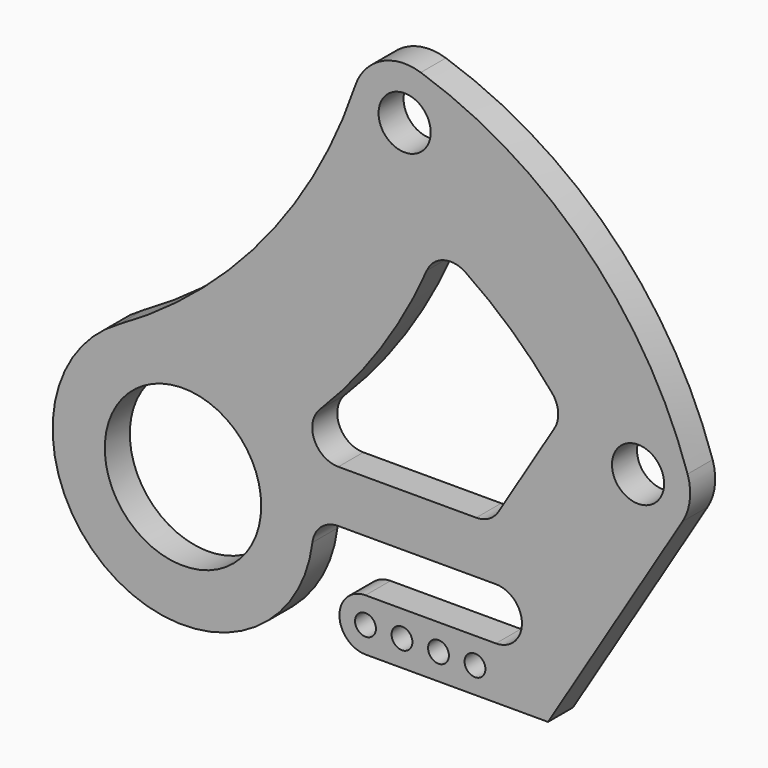
from build123d import *

# Parameters (mm, degrees)
F0_R     = 381
F0_R_2   = 50.8
F0_R_3   = 127
F1_DEPTH = 76.2


with BuildPart() as f1:
    # F0 (on Front) → F1 (new body, symmetric)
    with BuildSketch(Plane.XZ):
        with BuildLine():
            ThreePointArc((838.7500001036, 1950.7145033781), (391.4860134039, 1145.1080022652), (-313.7499997721, 552.0742138907))
            ThreePointArc((-313.7499997721, 552.0742138907), (-351.7598087689, -528.668172803), (630.4178818591, -76.1465313217))
            ThreePointArc((630.4178818591, -76.1465313217), (670.6503660571, 2.2115011547), (752.18033962, 35.5506290549))
            Line((752.18033962, 35.5506290549), (1524, 35.5506290549))
            ThreePointArc((1524, 35.5506290549), (1651, -91.4493709451), (1524, -218.4493709451))
            Line((1524, -218.4493709451), (889, -218.4493709451))
            ThreePointArc((889, -218.4493709451), (762, -345.4493709451), (889, -472.4493709451))
            Line((889, -472.4493709451), (1778, -472.4493709451))
            Line((1778, -472.4493709451), (2433.3617555297, 600.2082164937))
            ThreePointArc((2433.3617555297, 600.2082164937), (2468.9030131612, 703.1971475934), (2458.0272772021, 811.6020335093))
            ThreePointArc((2458.0272772021, 811.6020335093), (1963.5666433529, 1616.7009145739), (1158.4677622883, 2111.1615484231))
            ThreePointArc((1158.4677622883, 2111.1615484231), (965.5737665536, 2096.7660561022), (838.7500001036, 1950.7145033781))
        make_face()
        Circle(F0_R, mode=Mode.SUBTRACT)
        with Locations((889, -345.4493709451)):
            Circle(F0_R_2, mode=Mode.SUBTRACT)
        with Locations((1066.8, -345.4493709451)):
            Circle(F0_R_2, mode=Mode.SUBTRACT)
        with Locations((1244.6, -345.4493709451)):
            Circle(F0_R_2, mode=Mode.SUBTRACT)
        with Locations((1422.4, -345.4493709451)):
            Circle(F0_R_2, mode=Mode.SUBTRACT)
        with Locations((2216.6145755496, 732.634271221)):
            Circle(F0_R_3, mode=Mode.SUBTRACT)
        with BuildLine():
            Line((1428.1858185453, 289.5506290549), (756.5014582309, 289.5506290549))
            ThreePointArc((756.5014582309, 289.5506290549), (639.4344703994, 367.3132412274), (665.7286600946, 505.3723556679))
            ThreePointArc((665.7286600946, 505.3723556679), (666.3428406866, 505.9957165807), (666.9613019633, 506.6148306868))
            ThreePointArc((666.9613019633, 506.6148306868), (962.5511600778, 865.1364336062), (1187.8826151659, 1271.5067564988))
            ThreePointArc((1187.8826151659, 1271.5067564988), (1268.8325854923, 1342.337053046), (1375.0939489603, 1325.6531914211))
            ThreePointArc((1375.0939489603, 1325.6531914211), (1600.0851563785, 1149.8307084661), (1798.2089151013, 944.2058919736))
            ThreePointArc((1798.2089151013, 944.2058919736), (1827.4405614104, 872.1234350962), (1809.1619798136, 796.5174618518))
            Line((1809.1619798136, 796.5174618518), (1536.5594085354, 350.3376016912))
            ThreePointArc((1536.5594085354, 350.3376016912), (1490.3144976107, 305.7849880032), (1428.1858185453, 289.5506290549))
        make_face(mode=Mode.SUBTRACT)
        with Locations((1079.5, 1869.7488467706)):
            Circle(F0_R_3, mode=Mode.SUBTRACT)
    extrude(amount=F1_DEPTH, both=True)


solid = f1.part
